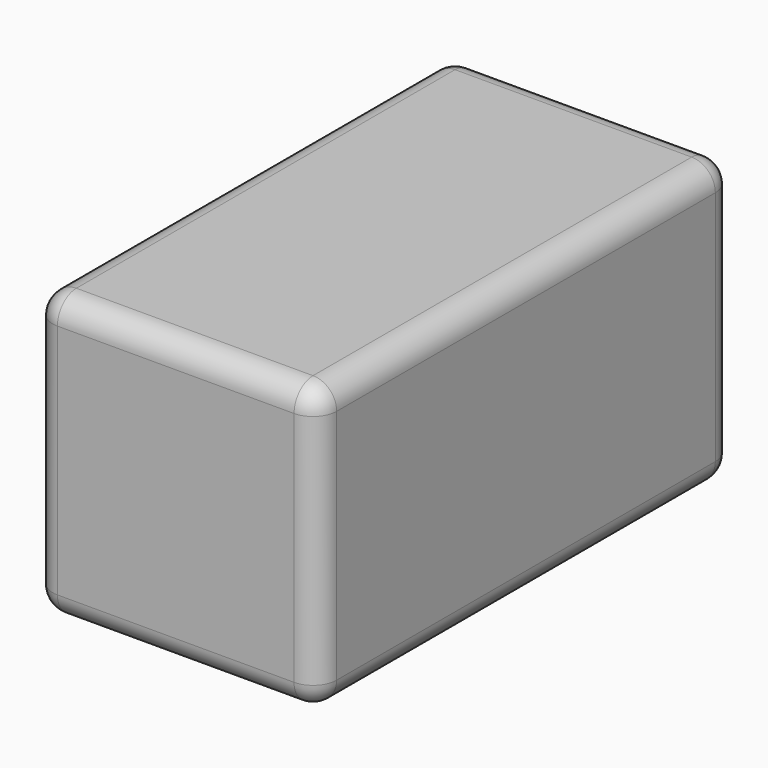
from build123d import *

# Parameters (mm, degrees)
F0_W      = 76.2
F0_H      = 139.7
F1_DEPTH  = 76.2
F3_R      = 6.35
F2_R      = 22.225
F4_DEPTH  = 12.7
F6_R      = 9.525
F7_DEPTH  = 12.7
F8_R      = 9.525
F9_DEPTH  = 120.65
F9_TAPER  = -10
F5_R      = 22.225
F10_DEPTH = 25.4


with BuildPart() as f1:
    # F0 (on Top) → F1 (new body)
    with BuildSketch(Plane.XY):
        Rectangle(F0_W, F0_H)
    extrude(amount=F1_DEPTH)

    # F3
    f3_edges = [f1.edges().sort_by_distance(p)[0] for p in [
        (38.1, 0, 76.2),
        (0, 69.85, 76.2),
        (-38.1, 0, 76.2),
        (0, -69.85, 76.2),
        (38.1, 69.85, 38.1),
        (-38.1, 69.85, 38.1),
        (0, 69.85, 0),
        (38.1, -69.85, 38.1),
        (38.1, 0, 0),
        (0, -69.85, 0),
        (-38.1, -69.85, 38.1),
        (-38.1, 0, 0),
    ]]
    fillet(f3_edges, radius=F3_R)

    # F2 (on face) → F4 (cut)
    with BuildSketch(Plane(origin=(0, 0, 0), x_dir=(1, 0, 0), z_dir=(0, 0, -1))):
        Circle(F2_R)
    extrude(amount=-F4_DEPTH, mode=Mode.SUBTRACT)

    # F6 (on face) → F7 (cut)
    with BuildSketch(Plane(origin=(0, 69.85, 0), x_dir=(-1, 0, 0), z_dir=(0, 1, 0))):
        with Locations((0, 38.1)):
            Circle(F6_R)
    extrude(amount=-F7_DEPTH, mode=Mode.SUBTRACT)

    # F8 (on face) → F9 (cut)
    with BuildSketch(Plane(origin=(0, 57.15, 0), x_dir=(-1, 0, 0), z_dir=(0, 1, 0))):
        with Locations((0, 38.1)):
            Circle(F8_R)
    extrude(amount=-F9_DEPTH, taper=F9_TAPER, mode=Mode.SUBTRACT)

    # F5 (on face) → F10 (cut)
    with BuildSketch(Plane(origin=(0, 0, 12.7), x_dir=(1, 0, 0), z_dir=(0, 0, -1))):
        Circle(F5_R)
        Circle(F5_R)
    extrude(amount=-F10_DEPTH, mode=Mode.SUBTRACT)


solid = f1.part
